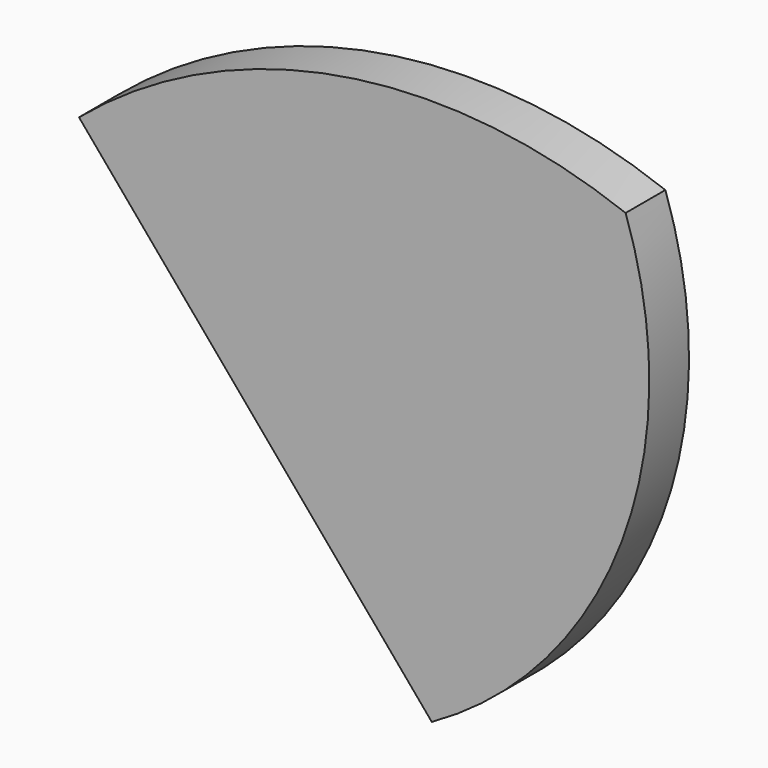
from build123d import *

# Parameters (mm, degrees)
F1_DEPTH = 2


with BuildPart() as f1:
    # F0 (on Front) → F1 (new body)
    with BuildSketch(Plane.XZ):
        with BuildLine():
            Line((-14.198258, 16.805043), (0, 0))
            ThreePointArc((0, 0), (7.640906, 8.866598), (7.801742, 20.570193))
            ThreePointArc((7.801742, 20.570193), (-3.711192, 21.684719), (-14.198258, 16.805043))
        make_face()
    extrude(amount=F1_DEPTH)


solid = f1.part
